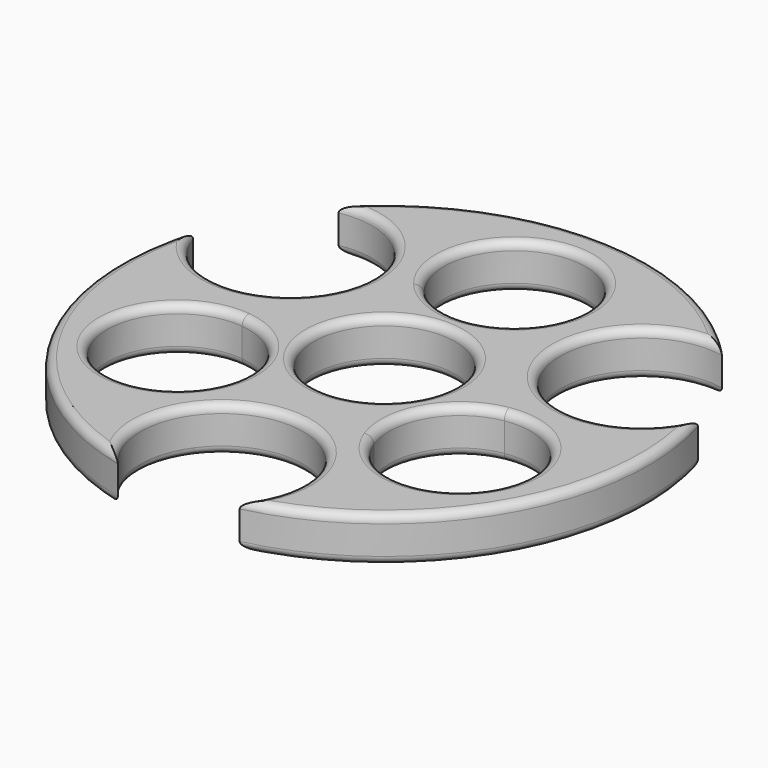
from build123d import *

# Parameters (mm, degrees)
F0_R     = 41.275
F2_DEPTH = 7
F1_R     = 11.05
F3_DEPTH = 7
F5_D     = 25.4
F6_R     = 1.27
F7_R     = 1.27


with BuildPart() as f2:
    # F0 (on Top) → F2 (new body)
    with BuildSketch(Plane.XY):
        Circle(F0_R)
        Polygon((-0.0418038421, 33.1022357606), (28.6882790118, -16.514914691), (-28.6464751697, -16.5873210696), align=None, mode=Mode.SUBTRACT)
        Polygon((-28.6464751697, -16.5873210696), (28.6882790118, -16.514914691), (-0.0418038421, 33.1022357606), align=None)
    extrude(amount=F2_DEPTH)

    # F1 (on face) → F3 (cut)
    with BuildSketch(Plane.XY):
        with BuildLine():
            Line((28.6882790118, -16.514914691), (20.1829204723, -1.8260724609))
            ThreePointArc((20.1829204723, -1.8260724609), (12.4341023648, -7.1636550444), (11.607054304, -16.5364860685))
            Line((11.607054304, -16.5364860685), (28.6882790118, -16.514914691))
        make_face()
        with BuildLine():
            ThreePointArc((33.0303299663, -12.7289078311), (29.1301944787, -4.303829941), (20.1829204723, -1.8260724609))
            Line((20.1829204723, -1.8260724609), (28.6882790118, -16.514914691))
            Line((28.6882790118, -16.514914691), (11.607054304, -16.5364860685))
            ThreePointArc((11.607054304, -16.5364860685), (23.913954016, -23.6084114059), (33.0303299663, -12.7289078311))
        make_face()
        Circle(F1_R)
        with BuildLine():
            Line((-28.6464751697, -16.5873210696), (-20.4080066394, -2.2761672884))
            ThreePointArc((-20.4080066394, -2.2761672884), (-30.934032144, -19.2738546033), (-11.1254040764, -16.5651942231))
            Line((-11.1254040764, -16.5651942231), (-28.6464751697, -16.5873210696))
        make_face()
        with BuildLine():
            ThreePointArc((-10.6176703624, -13.2541337351), (-13.4207987089, -5.8994340179), (-20.4080066394, -2.2761672884))
            Line((-20.4080066394, -2.2761672884), (-28.6464751697, -16.5873210696))
            Line((-28.6464751697, -16.5873210696), (-11.1254040764, -16.5651942231))
            ThreePointArc((-11.1254040764, -16.5651942231), (-10.7453413419, -14.9290154533), (-10.6176703624, -13.2541337351))
        make_face()
        with BuildLine():
            Line((-0.0418038421, 33.1022357606), (-8.5237751416, 18.3680900649))
            ThreePointArc((-8.5237751416, 18.3680900649), (-0.0156829676, 14.3500111292), (8.5037804211, 18.3439232892))
            Line((8.5037804211, 18.3439232892), (-0.0418038421, 33.1022357606))
        make_face()
        with BuildLine():
            ThreePointArc((8.5037804211, 18.3439232892), (10.3939711769, 21.6492849784), (11.05, 25.4))
            ThreePointArc((11.05, 25.4), (-3.7359593604, 35.7992839973), (-8.5237751416, 18.3680900649))
            Line((-8.5237751416, 18.3680900649), (-0.0418038421, 33.1022357606))
            Line((-0.0418038421, 33.1022357606), (8.5037804211, 18.3439232892))
        make_face()
    extrude(amount=F3_DEPTH, mode=Mode.SUBTRACT)

    # F5 (through all)
    with Locations(Plane(origin=(0, 0, 0), x_dir=(1, 0, 0), z_dir=(0, 0, -1))):
        with Locations((-27.4343179154, -15.9818866383), (27.5389638759, -15.8008850589), (0, 31.75)):
            Hole(F5_D / 2)

    # F6
    f6_edges = [f2.edges().sort_by_distance(p)[0] for p in [
        (0, -19.05, 7),
        (35.717374, -20.685619, 7),
        (16.523378, 9.480531, 7),
        (0.135899, 41.274776, 7),
        (-16.460591, 9.589132, 7),
        (-35.785288, -20.567906, 7),
        (-32.209937, -9.943073, 7),
        (-11.05, 0, 7),
        (32.353606, -8.92133, 7),
        (-8.50378, 32.456077, 7),
    ]]
    fillet(f6_edges, radius=F6_R)

    # F7
    f7_edges = [f2.edges().sort_by_distance(p)[0] for p in [
        (35.717374, -20.685619, 0),
        (16.523378, 9.480531, 0),
        (0.135899, 41.274776, 0),
        (-16.460591, 9.589132, 0),
        (-35.785288, -20.567906, 0),
        (0, -19.05, 0),
        (-32.209937, -9.943073, 0),
        (-11.05, 0, 0),
        (32.353606, -8.92133, 0),
        (-8.50378, 32.456077, 0),
    ]]
    fillet(f7_edges, radius=F7_R)


solid = f2.part
